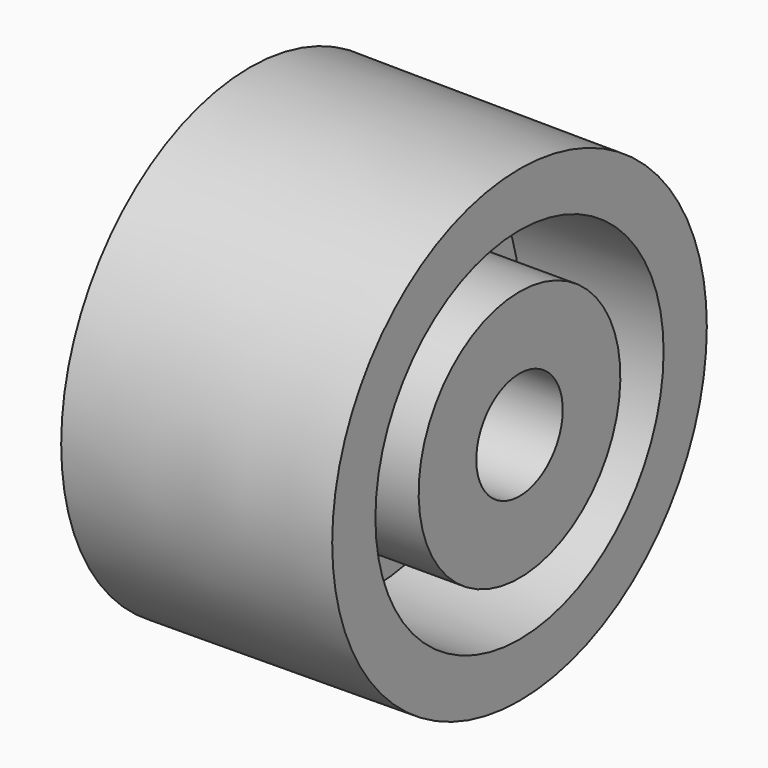
from build123d import *


with BuildPart() as f1:
    # F0 (on Front) → F1 (revolve)
    with BuildSketch(Plane.XZ):
        with BuildLine():
            Line((4.338621, 3), (15, 3))
            Line((15, 3), (15, 7))
            Line((15, 7), (7, 7))
            Line((7, 7), (7, 10))
            Line((7, 10), (15, 10))
            Line((15, 10), (15, 13))
            Line((15, 13), (0.029517, 13.095834))
            Line((0.029517, 13.095834), (0.848745, 11.908195))
            ThreePointArc((0.848745, 11.908195), (1.506784, 10.555919), (1.732951, 9.069139))
            Line((1.732951, 9.069139), (1.732951, 7.126357))
            ThreePointArc((1.732951, 7.126357), (1.365156, 4.439235), (0.288825, 1.949774))
            ThreePointArc((0.288825, 1.949774), (0.073559, 1.451882), (0, 0.914457))
            Line((0, 0.914457), (0, 0))
            Line((0, 0), (4.338621, 0))
            Line((4.338621, 0), (4.338621, 3))
        make_face()
    revolve(axis=Axis((8.018091, 0, 0), (1, 0, 0)))


solid = f1.part
